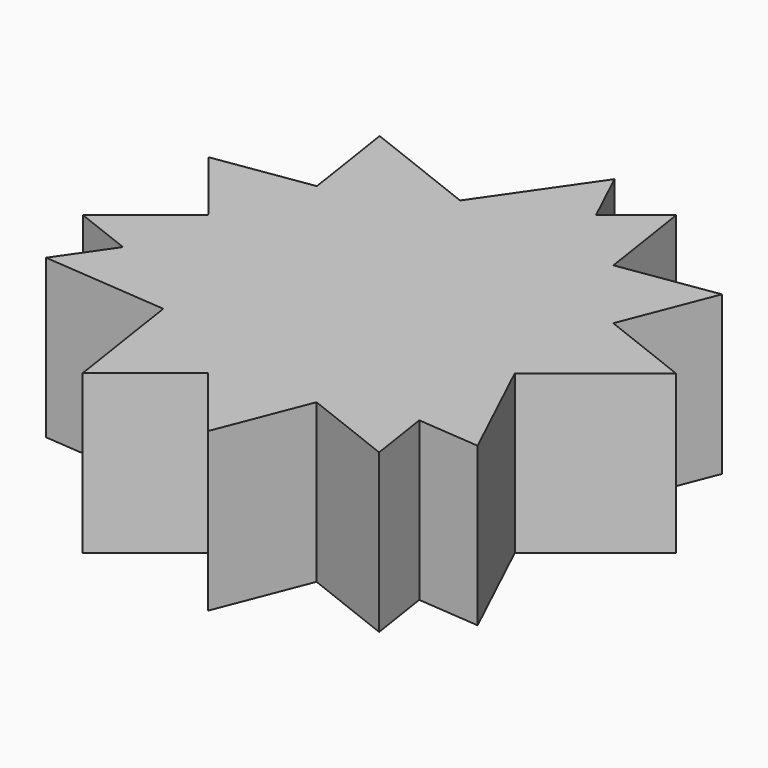
from build123d import *

# Parameters (mm, degrees)
F1_DEPTH = 25.4


with BuildPart() as f1:
    # F0 (on Top) → F1 (new body)
    with BuildSketch(Plane.XY):
        Polygon((27.8356494382, 12.1693564579), (33.5699106521, 26.8122048944), (18.0217013154, 24.4567965593), (19.3815969517, 15.4800337134), align=None)
        Polygon((42.4784978747, 6.435095244), (27.8356494382, 12.1693564579), (23.3848302984, 0.8038696669), (26.688019605, -6.1767208295), align=None)
        Polygon((23.3848302984, 0.8038696669), (27.8356494382, 12.1693564579), (19.3815969517, 15.4800337134), (20.7667316179, 6.3366663281), align=None)
        Polygon((19.3815969517, 15.4800337134), (18.0217013154, 24.4567965593), (12.5822778175, 23.6327747593), (15.7710654967, 16.8939478554), align=None)
        Polygon((12.5822778175, 23.6327747593), (18.0217013154, 24.4567965593), (15.6662929803, 40.0050058961), (7.8057995659, 33.7268491806), align=None)
        Polygon((26.688019605, -6.1767208295), (23.3848302984, 0.8038696669), (22.1013882243, -2.4734919786), (23.096900923, -9.0449384694), align=None)
        Polygon((2.4734919786, 22.1013882243), (12.5822778175, 23.6327747593), (7.8057995659, 33.7268491806), (-3.7153039714, 24.5249721827), align=None)
        Polygon((35.3318663109, -24.443658799), (26.688019605, -6.1767208295), (23.096900923, -9.0449384694), (25.3054083971, -23.6234453112), align=None)
        Polygon((-3.7153039714, 24.5249721827), (7.8057995659, 33.7268491806), (3.502896326, 42.8201231878), (-7.9948126521, 26.2008633694), align=None)
        Polygon((23.096900923, -9.0449384694), (17.9036176718, -13.1928010017), (14.1754443947, -22.7129596071), (25.3054083971, -23.6234453112), align=None)
        Polygon((-12.388586702, 19.8499222681), (-8.9085872226, 20.3771096504), (-3.7153039714, 24.5249721827), (-7.9948126521, 26.2008633694), align=None)
        Polygon((25.3054083971, -23.6234453112), (14.1754443947, -22.7129596071), (12.1693564579, -27.8356494382), (26.8122048944, -33.5699106521), align=None)
        Polygon((12.1693564579, -27.8356494382), (14.1754443947, -22.7129596071), (6.7450552646, -22.1051172926), (3.7153039714, -24.5249721827), align=None)
        Polygon((-15.8710798244, 14.8161839706), (-12.388586702, 19.8499222681), (-24.4567965593, 18.0217013154), (-23.096900923, 9.0449384694), align=None)
        Polygon((-24.4567965593, 18.0217013154), (-12.388586702, 19.8499222681), (-7.9948126521, 26.2008633694), (-26.8122048944, 33.5699106521), align=None)
        Polygon((6.435095244, -42.4784978747), (12.1693564579, -27.8356494382), (3.7153039714, -24.5249721827), (-3.3788528789, -30.1910577733), align=None)
        Polygon((3.7153039714, -24.5249721827), (-4.8956517935, -21.1528502987), (-10.9962435963, -20.653791935), (-3.3788528789, -30.1910577733), align=None)
        Polygon((-23.096900923, 9.0449384694), (-24.4567965593, 18.0217013154), (-40.0050058961, 15.6662929803), (-30.1910577733, 3.3788528789), align=None)
        Polygon((-26.7577222122, -0.9198151522), (-22.5161207613, 5.2111694372), (-23.096900923, 9.0449384694), (-30.1910577733, 3.3788528789), align=None)
        Polygon((-18.693206953, -20.0241425399), (-10.9962435963, -20.653791935), (-13.1928010017, -17.9036176718), (-19.3815969517, -15.4800337134), align=None)
        Polygon((-3.3788528789, -30.1910577733), (-10.9962435963, -20.653791935), (-18.693206953, -20.0241425399), (-15.6662929803, -40.0050058961), align=None)
        Polygon((-33.111207963, -10.1034038694), (-26.7577222122, -0.9198151522), (-30.1910577733, 3.3788528789), (-42.4784978747, -6.435095244), align=None)
        Polygon((-20.3771096504, -8.9085872226), (-26.7577222122, -0.9198151522), (-33.111207963, -10.1034038694), (-19.3815969517, -15.4800337134), align=None)
        Polygon((-38.8347626368, -18.3764643888), (-18.693206953, -20.0241425399), (-19.3815969517, -15.4800337134), (-33.111207963, -10.1034038694), align=None)
        Polygon((17.9036176718, -13.1928010017), (22.1013882243, -2.4734919786), (20.7667316179, 6.3366663281), (15.7710654967, 16.8939478554), (2.4734919786, 22.1013882243), (-8.9085872226, 20.3771096504), (-15.8710798244, 14.8161839706), (-22.5161207613, 5.2111694372), (-20.3771096504, -8.9085872226), (-13.1928010017, -17.9036176718), (-4.8956517935, -21.1528502987), (6.7450552646, -22.1051172926), align=None)
        Polygon((15.7710654967, 16.8939478554), (12.5822778175, 23.6327747593), (2.4734919786, 22.1013882243), align=None)
        Polygon((20.7667316179, 6.3366663281), (19.3815969517, 15.4800337134), (15.7710654967, 16.8939478554), align=None)
        Polygon((22.1013882243, -2.4734919786), (23.3848302984, 0.8038696669), (20.7667316179, 6.3366663281), align=None)
        Polygon((23.096900923, -9.0449384694), (22.1013882243, -2.4734919786), (17.9036176718, -13.1928010017), align=None)
        Polygon((14.1754443947, -22.7129596071), (17.9036176718, -13.1928010017), (6.7450552646, -22.1051172926), align=None)
        Polygon((3.7153039714, -24.5249721827), (6.7450552646, -22.1051172926), (-4.8956517935, -21.1528502987), align=None)
        Polygon((-10.9962435963, -20.653791935), (-4.8956517935, -21.1528502987), (-13.1928010017, -17.9036176718), align=None)
        Polygon((-19.3815969517, -15.4800337134), (-13.1928010017, -17.9036176718), (-20.3771096504, -8.9085872226), align=None)
        Polygon((-20.3771096504, -8.9085872226), (-22.5161207613, 5.2111694372), (-26.7577222122, -0.9198151522), align=None)
        Polygon((-22.5161207613, 5.2111694372), (-15.8710798244, 14.8161839706), (-23.096900923, 9.0449384694), align=None)
        Polygon((-15.8710798244, 14.8161839706), (-8.9085872226, 20.3771096504), (-12.388586702, 19.8499222681), align=None)
        Polygon((-8.9085872226, 20.3771096504), (2.4734919786, 22.1013882243), (-3.7153039714, 24.5249721827), align=None)
    extrude(amount=F1_DEPTH)


solid = f1.part
